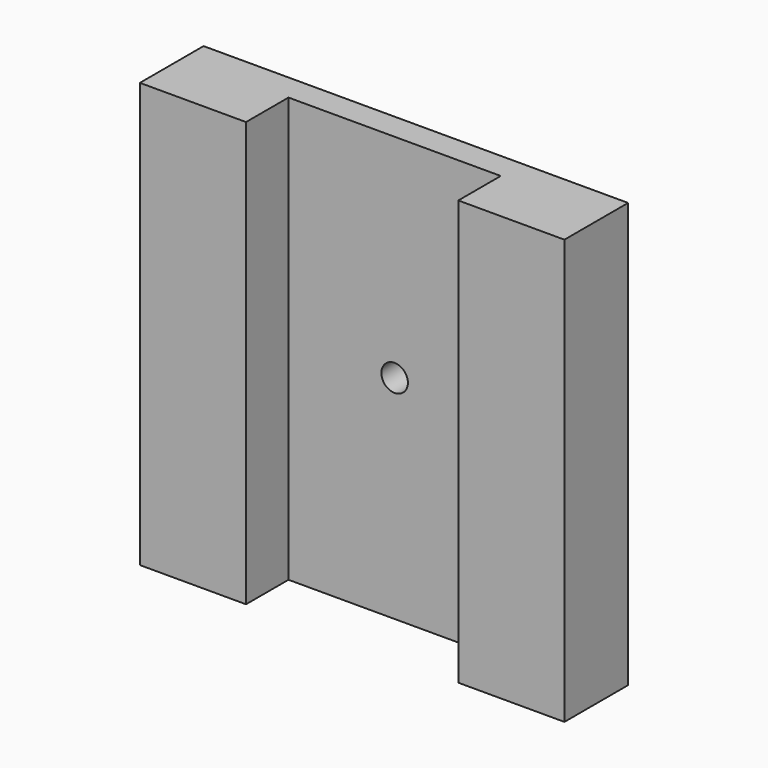
from build123d import *

# Parameters (mm, degrees)
F0_W     = 101.6
F0_H     = 25.4
F0_W_2   = 50.8
F0_H_2   = 12.7
F1_DEPTH = 101.6
F3_DEPTH = 101.601
F5_D     = 6.35


with BuildPart() as f1:
    # F0 (on Top) → F1 (new body)
    with BuildSketch(Plane.XY):
        with Locations((16.590777, -19.253528)):
            Rectangle(F0_W, F0_H)
        with Locations((16.590777, -19.253528)):
            Rectangle(F0_W_2, F0_H_2, mode=Mode.SUBTRACT)
    extrude(amount=F1_DEPTH)

    # F2 (on face) → F3 (cut, through all)
    with BuildSketch(Plane.XY.offset(101.6)):
        Polygon((41.990777, -25.603528), (-8.809223, -25.603528), (-34.209223, -25.603528), (-34.209223, -31.953528), (67.390777, -31.953528), (67.390777, -25.603528), align=None)
    extrude(amount=-F3_DEPTH, mode=Mode.SUBTRACT)

    # F5 (through all)
    with Locations(Plane(origin=(0, -6.553528, 0), x_dir=(-1, 0, 0), z_dir=(0, 1, 0))):
        with Locations((-16.590777, 50.8)):
            Hole(F5_D / 2)


solid = f1.part
